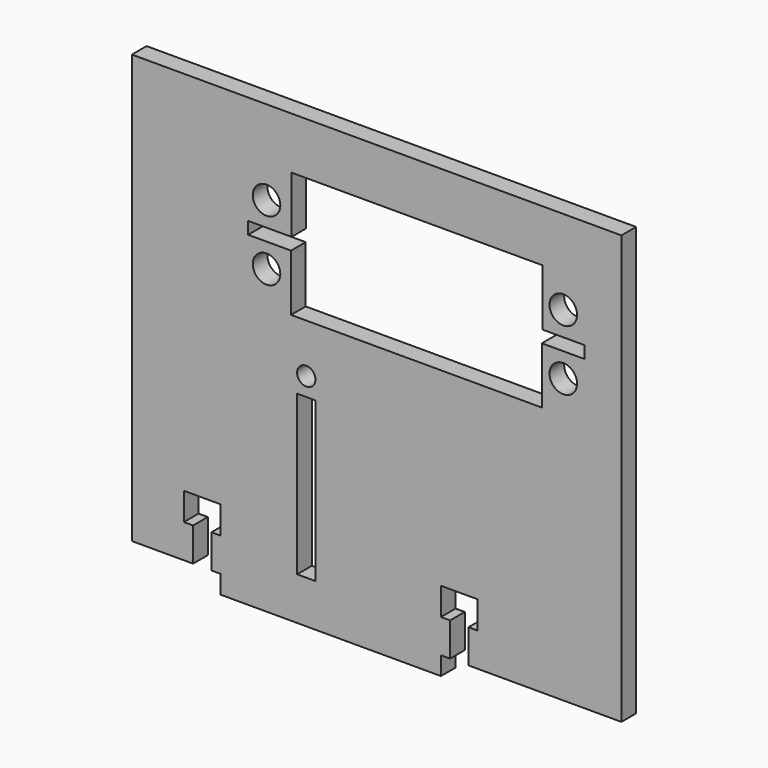
from build123d import *

# Parameters (mm, degrees)
PAD002_DEPTH    = 3
SKETCH008_R     = 1.5
SKETCH008_W     = 3
SKETCH008_H     = 26
POCKET001_DEPTH = 3.001
POCKET002_DEPTH = 3.001
SKETCH011_R     = 2.25
HOLE003_DEPTH   = 3.001


with BuildPart() as part:
    # Sketch005 → Pad002 (new body)
    with BuildSketch(Plane.XZ):
        Polygon((-30, 0), (-30, 70), (50, 70), (50, 0), (25, 0), (25, 5.5), (26.5, 5.5), (26.5, 10), (20.5, 10), (20.5, 5.5), (22, 5.5), (22, 0), (20.5, 0), (20.5, -3), (-15.5, -3), (-15.5, 0), (-17, 0), (-17, 5.5), (-15.5, 5.5), (-15.5, 10), (-21.5, 10), (-21.5, 5.5), (-20, 5.5), (-20, 0), align=None)
    extrude(amount=PAD002_DEPTH)

    # Sketch008 (on Face25 of Pad002) → Pocket001 (cut, through all)
    with BuildSketch(Plane(origin=(0, 0, 0), x_dir=(1, 0, 0), z_dir=(0, 1, 0))):
        with Locations((-1.5, -33)):
            Circle(SKETCH008_R)
        with Locations((-1.5, -17)):
            Rectangle(SKETCH008_W, SKETCH008_H)
    extrude(amount=-POCKET001_DEPTH, mode=Mode.SUBTRACT)

    # Sketch009 (on Face4 of Pocket001) → Pocket002 (cut, through all)
    with BuildSketch(Plane(origin=(0, 0, 0), x_dir=(1, 0, 0), z_dir=(0, 1, 0))):
        Polygon((-4, -41), (37, -41), (37, -50.25), (44, -50.25), (44, -52.25), (37.088989, -52.25), (37.088989, -61.5), (-3.911011, -61.5), (-3.911011, -52.25), (-11, -52.25), (-11, -50.25), (-4, -50.25), align=None)
    extrude(amount=-POCKET002_DEPTH, mode=Mode.SUBTRACT)

    # Sketch011 (on Face5 of Pocket002) → Hole003 (cut, through all)
    with BuildSketch(Plane.XZ.offset(3)):
        with Locations((-8, 56.2)):
            Circle(SKETCH011_R)
        with Locations((-8, 46.3)):
            Circle(SKETCH011_R)
        with Locations((40.5, 56.2)):
            Circle(SKETCH011_R)
        with Locations((40.5, 46.3)):
            Circle(SKETCH011_R)
    extrude(amount=-HOLE003_DEPTH, mode=Mode.SUBTRACT)


with BuildPart() as part_1:
    # Body002 placement: moved
    add(part.part.moved(Location((-180, 156, 84))))


solid = part_1.part
